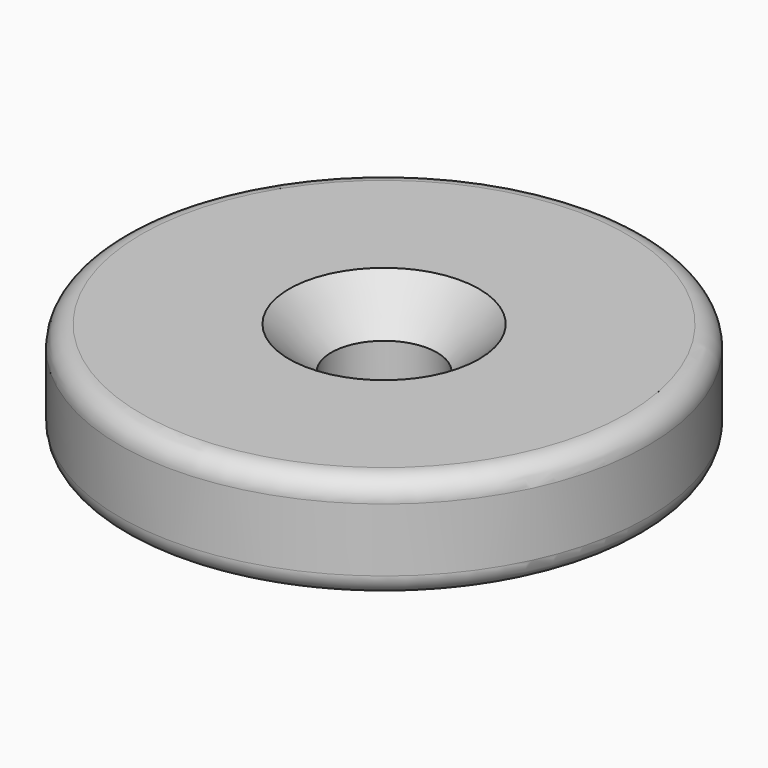
from build123d import *

# Parameters (mm, degrees)
SKETCH_R     = 12.5
PAD_DEPTH    = 5
FILLET_R     = 1
SKETCH001_R  = 2.5
POCKET_DEPTH = 5
CHAMFER_SIZE = 2


with BuildPart() as part:
    # Sketch (on XY_Plane of Origin) → Pad (new body)
    with BuildSketch(Plane.XY):
        Circle(SKETCH_R)
    extrude(amount=PAD_DEPTH)

    # Fillet
    fillet_edges = [part.edges().sort_by_distance(p)[0] for p in [
        (-12.5, 0, 5),
        (-12.5, 0, 0),
    ]]
    fillet(fillet_edges, radius=FILLET_R)

    # Sketch001 (on Face5 of Fillet) → Pocket (cut)
    with BuildSketch(Plane.XY.offset(5)):
        Circle(SKETCH001_R)
    extrude(amount=-POCKET_DEPTH, mode=Mode.SUBTRACT)

    # Chamfer
    chamfer_edges = [part.edges().sort_by_distance(p)[0] for p in [
        (-2.5, 0, 5),
    ]]
    chamfer(chamfer_edges, length=CHAMFER_SIZE)


solid = part.part
